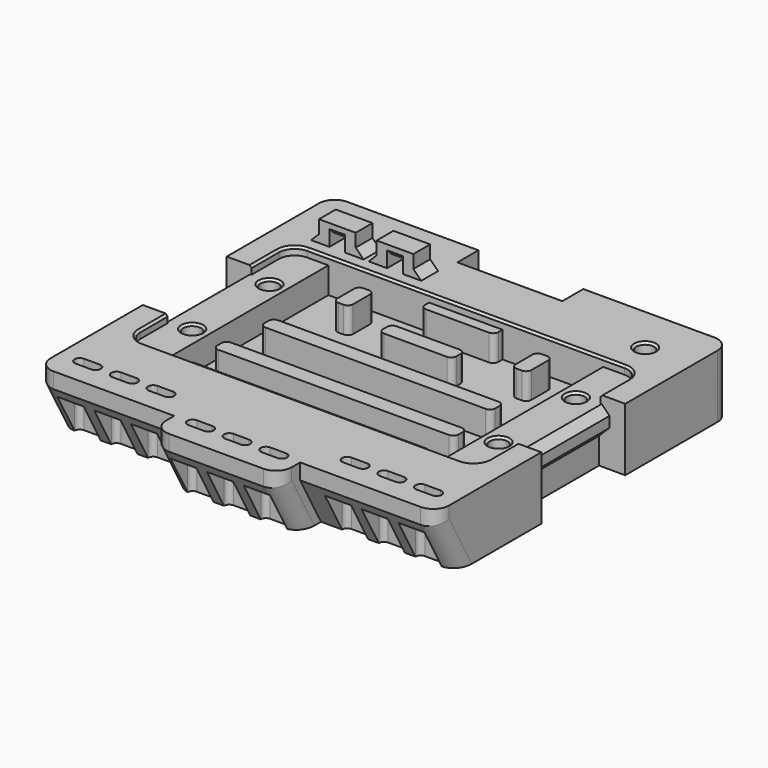
from build123d import *

# Parameters (mm, degrees)
SKETCH_W                 = 76
SKETCH_H                 = 75
PAD_DEPTH                = 12
SKETCH001_W              = 66.5
SKETCH001_H              = 39
POCKET_DEPTH             = 1.5
FILLET_R                 = 3
SKETCH002_W              = 3
SKETCH002_H              = 20
SKETCH002_W_2            = 20
SKETCH002_H_2            = 3
POCKET001_DEPTH          = 12.001
SKETCH003_W              = 52.42
SKETCH003_H              = 39
POCKET002_DEPTH          = 5
SKETCH004_R              = 1.7
POCKET003_DEPTH          = 12.001
SKETCH005_R              = 1.95
POCKET004_DEPTH          = 7
SKETCH006_W              = 2
SKETCH006_H              = 20
SKETCH006_W_2            = 20
SKETCH006_H_2            = 2
POCKET005_DEPTH          = 5
SKETCH007_W              = 2
SKETCH007_H              = 20
SKETCH007_W_2            = 20
SKETCH007_H_2            = 2
POCKET006_DEPTH          = 1.5
SKETCH019_W              = 26
SKETCH019_H              = 5
POCKET015_DEPTH          = 12.001
CHAMFER_SIZE2            = 9
CHAMFER_SIZE             = 4.99
FILLET007009_R           = 3
POCKET016_DEPTH          = 12.001
SKETCH021_W              = 5
SKETCH021_H              = 5
POCKET017_DEPTH          = 7
CHAMFER013004014004_SIZE = 0.4
CHAMFER013004014005_SIZE = 1.5
CHAMFER013004014006_SIZE = 1.99
SKETCH022_R              = 1.7
POCKET018_DEPTH          = 12.001
SKETCH023_R              = 1.95
POCKET019_DEPTH          = 7
CHAMFER013004014007_SIZE = 0.4
SKETCH024_W              = 7
SKETCH024_H              = 4
PAD004_DEPTH             = 4
SKETCH025_W              = 3
SKETCH025_H              = 2
POCKET020_DEPTH          = 4
CHAMFER013004014008_SIZE = 1.5
CHAMFER013004014009_SIZE = 1
CHAMFER013004014010_SIZE = 0.4
SKETCH026_W              = 2
SKETCH026_H              = 54
SKETCH026_H_2            = 55
POCKET021_DEPTH          = 4
SKETCH027_W              = 44
SKETCH027_H              = 3
SKETCH027_W_2            = 46
SKETCH027_H_2            = 2
SKETCH027_W_3            = 3
SKETCH027_H_3            = 6
SKETCH027_W_4            = 14
PAD005_DEPTH             = 5
FILLET007010_R           = 1
CHAMFER013004014011_SIZE = 0.6


with BuildPart() as part:
    # Sketch → Pad (new body)
    with BuildSketch(Plane.XY):
        with Locations((0, -2.5)):
            Rectangle(SKETCH_W, SKETCH_H)
    extrude(amount=PAD_DEPTH)

    # Sketch001 (on Face6 of Pad) → Pocket (cut)
    with BuildSketch(Plane.XY.offset(12)):
        Rectangle(SKETCH001_W, SKETCH001_H)
    extrude(amount=-POCKET_DEPTH, mode=Mode.SUBTRACT)

    # Fillet
    fillet_edges = [part.edges().sort_by_distance(p)[0] for p in [
        (-33.25, 19.5, 11.25),
        (33.25, 19.5, 11.25),
        (33.25, -19.5, 11.25),
        (-33.25, -19.5, 11.25),
    ]]
    fillet(fillet_edges, radius=FILLET_R)

    # Sketch002 (on Face1 of Fillet) → Pocket001 (cut, through all)
    with BuildSketch(Plane.XY.offset(12)):
        with Locations((-36.5, 0)):
            Rectangle(SKETCH002_W, SKETCH002_H)
        with Locations((36.5, 0)):
            Rectangle(SKETCH002_W, SKETCH002_H)
        with Locations((0, 33.5)):
            Rectangle(SKETCH002_W_2, SKETCH002_H_2)
    extrude(amount=-POCKET001_DEPTH, mode=Mode.SUBTRACT)

    # Sketch003 (on Face27 of Pocket001) → Pocket002 (cut)
    with BuildSketch(Plane.XY.offset(10.5)):
        Rectangle(SKETCH003_W, SKETCH003_H)
    extrude(amount=-POCKET002_DEPTH, mode=Mode.SUBTRACT)

    # Sketch004 (on Face26 of Pocket002) → Pocket003 (cut, through all)
    with BuildSketch(Plane(origin=(0, 0, 0), x_dir=(1, 0, 0), z_dir=(0, 0, -1))):
        with Locations((-29.21, 9.2075)):
            Circle(SKETCH004_R)
        with Locations((-29.21, -9.2075)):
            Circle(SKETCH004_R)
        with Locations((29.21, 9.2075)):
            Circle(SKETCH004_R)
        with Locations((29.21, -9.2075)):
            Circle(SKETCH004_R)
    extrude(amount=-POCKET003_DEPTH, mode=Mode.SUBTRACT)

    # Sketch005 (on Face26 of Pocket003) → Pocket004 (cut)
    with BuildSketch(Plane(origin=(0, 0, 0), x_dir=(1, 0, 0), z_dir=(0, 0, -1))):
        with Locations((-29.21, 9.2075)):
            Circle(SKETCH005_R)
        with Locations((-29.21, -9.2075)):
            Circle(SKETCH005_R)
        with Locations((29.21, 9.2075)):
            Circle(SKETCH005_R)
        with Locations((29.21, -9.2075)):
            Circle(SKETCH005_R)
    extrude(amount=-POCKET004_DEPTH, mode=Mode.SUBTRACT)

    # Sketch006 (on Face26 of Pocket004) → Pocket005 (cut)
    with BuildSketch(Plane(origin=(0, 0, 0), x_dir=(1, 0, 0), z_dir=(0, 0, -1))):
        with Locations((-34, 0)):
            Rectangle(SKETCH006_W, SKETCH006_H)
        with Locations((34, 0)):
            Rectangle(SKETCH006_W, SKETCH006_H)
        with Locations((0, -31)):
            Rectangle(SKETCH006_W_2, SKETCH006_H_2)
    extrude(amount=-POCKET005_DEPTH, mode=Mode.SUBTRACT)

    # Sketch007 (on Face1 of Pocket005) → Pocket006 (cut)
    with BuildSketch(Plane.XY.offset(12)):
        with Locations((-34, 0)):
            Rectangle(SKETCH007_W, SKETCH007_H)
        with Locations((34, 0)):
            Rectangle(SKETCH007_W, SKETCH007_H)
        with Locations((0, 31)):
            Rectangle(SKETCH007_W_2, SKETCH007_H_2)
    extrude(amount=-POCKET006_DEPTH, mode=Mode.SUBTRACT)

    # Sketch019 (on Face67 of Pocket006) → Pocket015 (cut, through all)
    with BuildSketch(Plane.XY.offset(12)):
        with Locations((-25, -37.5)):
            Rectangle(SKETCH019_W, SKETCH019_H)
        with Locations((25, -37.5)):
            Rectangle(SKETCH019_W, SKETCH019_H)
    extrude(amount=-POCKET015_DEPTH, mode=Mode.SUBTRACT)

    # Chamfer
    chamfer_edges = [part.edges().sort_by_distance(p)[0] for p in [
        (-25, -35, 0),
        (0, -40, 0),
        (25, -35, 0),
    ]]
    chamfer_side = part.faces().sort_by_distance((0, -1.521931, 0))[0]
    chamfer(chamfer_edges, length=CHAMFER_SIZE, length2=CHAMFER_SIZE2, reference=chamfer_side)

    # Fillet007009
    fillet007009_edges = [part.edges().sort_by_distance(p)[0] for p in [
        (-38, -32.505, 4.5),
        (-38, -35, 10.5),
        (-38, 35, 6),
        (38, 35, 6),
        (38, -32.505, 4.5),
        (38, -35, 10.5),
        (12, -40, 10.5),
        (12, -37.505, 4.5),
        (-12, -40, 10.5),
        (-12, -37.505, 4.5),
    ]]
    fillet(fillet007009_edges, radius=FILLET007009_R)

    # Sketch020 (on Face39 of Fillet007009) → Pocket016 (cut, through all)
    with BuildSketch(Plane.XY.offset(12)):
        with BuildLine():
            ThreePointArc((-34, -29), (-35, -30), (-34, -31))
            Line((-34, -31), (-31, -31))
            ThreePointArc((-31, -31), (-30, -30), (-31, -29))
            Line((-34, -29), (-31, -29))
        make_face()
        with BuildLine():
            ThreePointArc((-27, -29), (-28, -30), (-27, -31))
            Line((-27, -31), (-24, -31))
            ThreePointArc((-24, -31), (-23, -30), (-24, -29))
            Line((-27, -29), (-24, -29))
        make_face()
        with BuildLine():
            ThreePointArc((-20, -29), (-21, -30), (-20, -31))
            Line((-20, -31), (-17, -31))
            ThreePointArc((-17, -31), (-16, -30), (-17, -29))
            Line((-20, -29), (-17, -29))
        make_face()
        with BuildLine():
            ThreePointArc((-8.5, -34), (-9.5, -35), (-8.5, -36))
            Line((-8.5, -36), (-5.5, -36))
            ThreePointArc((-5.5, -36), (-4.5, -35), (-5.5, -34))
            Line((-8.5, -34), (-5.5, -34))
        make_face()
        with BuildLine():
            ThreePointArc((-1.5, -34), (-2.5, -35), (-1.5, -36))
            Line((-1.5, -36), (1.5, -36))
            ThreePointArc((1.5, -36), (2.5, -35), (1.5, -34))
            Line((-1.5, -34), (1.5, -34))
        make_face()
        with BuildLine():
            ThreePointArc((5.5, -34), (4.5, -35), (5.5, -36))
            Line((5.5, -36), (8.5, -36))
            ThreePointArc((8.5, -36), (9.5, -35), (8.5, -34))
            Line((5.5, -34), (8.5, -34))
        make_face()
        with BuildLine():
            ThreePointArc((17, -29), (16, -30), (17, -31))
            Line((17, -31), (20, -31))
            ThreePointArc((20, -31), (21, -30), (20, -29))
            Line((17, -29), (20, -29))
        make_face()
        with BuildLine():
            ThreePointArc((24, -29), (23, -30), (24, -31))
            Line((24, -31), (27, -31))
            ThreePointArc((27, -31), (28, -30), (27, -29))
            Line((24, -29), (27, -29))
        make_face()
        with BuildLine():
            ThreePointArc((31, -29), (30, -30), (31, -31))
            Line((31, -31), (34, -31))
            ThreePointArc((34, -31), (35, -30), (34, -29))
            Line((31, -29), (34, -29))
        make_face()
    extrude(amount=-POCKET016_DEPTH, mode=Mode.SUBTRACT)

    # Sketch021 (on Face1 of Pocket016) → Pocket017 (cut)
    with BuildSketch(Plane(origin=(0, 0, 0), x_dir=(1, 0, 0), z_dir=(0, 0, -1))):
        with Locations((-32.5, 32.5)):
            Rectangle(SKETCH021_W, SKETCH021_H)
        with Locations((-25.5, 32.5)):
            Rectangle(SKETCH021_W, SKETCH021_H)
        with Locations((-18.5, 32.5)):
            Rectangle(SKETCH021_W, SKETCH021_H)
        with Locations((-7, 37.5)):
            Rectangle(SKETCH021_W, SKETCH021_H)
        with Locations((0, 37.5)):
            Rectangle(SKETCH021_W, SKETCH021_H)
        with Locations((7, 37.5)):
            Rectangle(SKETCH021_W, SKETCH021_H)
        with Locations((18.5, 32.5)):
            Rectangle(SKETCH021_W, SKETCH021_H)
        with Locations((25.5, 32.5)):
            Rectangle(SKETCH021_W, SKETCH021_H)
        with Locations((32.5, 32.5)):
            Rectangle(SKETCH021_W, SKETCH021_H)
    extrude(amount=-POCKET017_DEPTH, mode=Mode.SUBTRACT)

    # Chamfer013004014004
    chamfer013004014004_edges = [part.edges().sort_by_distance(p)[0] for p in [
        (-32.5, -33.891111, 7),
        (-25.5, -33.891111, 7),
        (-18.5, -33.891111, 7),
        (-6.75, -38.891111, 7),
        (-9.251146, -38.87907, 7),
        (0, -38.891111, 7),
        (6.75, -38.891111, 7),
        (9.251146, -38.87907, 7),
        (18.5, -33.891111, 7),
        (25.5, -33.891111, 7),
        (32.5, -33.891111, 7),
    ]]
    chamfer(chamfer013004014004_edges, length=CHAMFER013004014004_SIZE)

    # Chamfer013004014005
    chamfer013004014005_edges = [part.edges().sort_by_distance(p)[0] for p in [
        (-35, 0, 10.5),
        (0, 32, 10.5),
        (35, 0, 10.5),
    ]]
    chamfer(chamfer013004014005_edges, length=CHAMFER013004014005_SIZE)

    # Chamfer013004014006
    chamfer013004014006_edges = [part.edges().sort_by_distance(p)[0] for p in [
        (35, 0, 5),
        (-35, 0, 5),
        (0, 32, 5),
    ]]
    chamfer(chamfer013004014006_edges, length=CHAMFER013004014006_SIZE)

    # Sketch022 (on Face9 of Chamfer013004014006) → Pocket018 (cut, through all)
    with BuildSketch(Plane(origin=(0, 0, 0), x_dir=(1, 0, 0), z_dir=(0, 0, -1))):
        with Locations((29, -26)):
            Circle(SKETCH022_R)
    extrude(amount=-POCKET018_DEPTH, mode=Mode.SUBTRACT)

    # Sketch023 (on Face9 of Pocket018) → Pocket019 (cut)
    with BuildSketch(Plane(origin=(0, 0, 0), x_dir=(1, 0, 0), z_dir=(0, 0, -1))):
        with Locations((29, -26)):
            Circle(SKETCH023_R)
    extrude(amount=-POCKET019_DEPTH, mode=Mode.SUBTRACT)

    # Chamfer013004014007
    chamfer013004014007_edges = [part.edges().sort_by_distance(p)[0] for p in [
        (-30.91, -9.2075, 10.5),
        (-30.91, 9.2075, 10.5),
        (27.3, 26, 12),
        (27.51, -9.2075, 10.5),
        (27.51, 9.2075, 10.5),
    ]]
    chamfer(chamfer013004014007_edges, length=CHAMFER013004014007_SIZE)

    # Sketch024 (on Face22 of Chamfer013004014007) → Pad004 (join)
    with BuildSketch(Plane.XY.offset(12)):
        with Locations((-26.5, 24)):
            Rectangle(SKETCH024_W, SKETCH024_H)
        with Locations((-15.5, 24)):
            Rectangle(SKETCH024_W, SKETCH024_H)
    extrude(amount=PAD004_DEPTH)

    # Sketch025 (on Face119 of Pad004) → Pocket020 (cut)
    with BuildSketch(Plane(origin=(0, 26, 0), x_dir=(-1, 0, 0), z_dir=(0, 1, 0))):
        with Locations((15.5, 13)):
            Rectangle(SKETCH025_W, SKETCH025_H)
        with Locations((26.5, 13)):
            Rectangle(SKETCH025_W, SKETCH025_H)
    extrude(amount=-POCKET020_DEPTH, mode=Mode.SUBTRACT)

    # Chamfer013004014008
    chamfer013004014008_edges = [part.edges().sort_by_distance(p)[0] for p in [
        (-30, 24, 12),
        (-19, 24, 12),
        (-23, 24, 12),
        (-12, 24, 12),
    ]]
    chamfer(chamfer013004014008_edges, length=CHAMFER013004014008_SIZE)

    # Chamfer013004014009
    chamfer013004014009_edges = [part.edges().sort_by_distance(p)[0] for p in [
        (-26.5, 22, 14),
        (-15.5, 22, 14),
        (-15.5, 26, 14),
        (-26.5, 26, 14),
    ]]
    chamfer(chamfer013004014009_edges, length=CHAMFER013004014009_SIZE)

    # Chamfer013004014010
    chamfer013004014010_edges = [part.edges().sort_by_distance(p)[0] for p in [
        (-33.25, 13.25, 12),
        (-32.37132, 18.62132, 12),
        (0, 19.5, 12),
        (32.37132, 18.62132, 12),
        (33.25, 13.25, 12),
        (33.25, -13.25, 12),
        (32.37132, -18.62132, 12),
        (0, -19.5, 12),
        (-32.37132, -18.62132, 12),
        (-33.25, -13.25, 12),
    ]]
    chamfer(chamfer013004014010_edges, length=CHAMFER013004014010_SIZE)

    # Sketch026 (on Face33 of Chamfer013004014010) → Pocket021 (cut)
    with BuildSketch(Plane(origin=(0, 0, 0), x_dir=(1, 0, 0), z_dir=(0, 0, -1))):
        with Locations((-23, -2)):
            Rectangle(SKETCH026_W, SKETCH026_H)
        with Locations((-9, 2.5)):
            Rectangle(SKETCH026_W, SKETCH026_H_2)
        with Locations((9, 2.5)):
            Rectangle(SKETCH026_W, SKETCH026_H_2)
        with Locations((23, -2)):
            Rectangle(SKETCH026_W, SKETCH026_H)
    extrude(amount=-POCKET021_DEPTH, mode=Mode.SUBTRACT)

    # Sketch027 (on Face152 of Pocket021) → Pad005 (join)
    with BuildSketch(Plane.XY.offset(5.5)):
        with Locations((0, -0.5)):
            Rectangle(SKETCH027_W, SKETCH027_H)
        with Locations((0, -18.5)):
            Rectangle(SKETCH027_W_2, SKETCH027_H_2)
        with Locations((-17, 14)):
            Rectangle(SKETCH027_W_3, SKETCH027_H_3)
        with Locations((17, 14)):
            Rectangle(SKETCH027_W_3, SKETCH027_H_3)
        with Locations((0, 9)):
            Rectangle(SKETCH027_W_4, SKETCH027_H)
        with Locations((0, 18.5)):
            Rectangle(SKETCH027_W_4, SKETCH027_H_2)
        with Locations((0, -10.5)):
            Rectangle(SKETCH027_W_2, SKETCH027_H)
    extrude(amount=PAD005_DEPTH)

    # Fillet007010
    fillet007010_edges = [part.edges().sort_by_distance(p)[0] for p in [
        (-23, -17.5, 8),
        (23, -17.5, 8),
        (23, -12, 8),
        (23, -9, 8),
        (22, -2, 8),
        (22, 1, 8),
        (18.5, 17, 8),
        (18.5, 11, 8),
        (7, 7.5, 8),
        (7, 10.5, 8),
        (7, 17.5, 8),
        (-15.5, 11, 8),
        (-15.5, 17, 8),
        (-7, 17.5, 8),
        (15.5, 17, 8),
        (15.5, 11, 8),
        (-7, 7.5, 8),
        (-18.5, 11, 8),
        (-18.5, 17, 8),
        (-22, -2, 8),
        (-22, 1, 8),
        (-23, -12, 8),
        (-23, -9, 8),
        (-7, 10.5, 8),
    ]]
    fillet(fillet007010_edges, radius=FILLET007010_R)

    # Chamfer013004014011
    chamfer013004014011_edges = [part.edges().sort_by_distance(p)[0] for p in [
        (27.05, 26, 0),
        (27.26, 9.2075, 0),
        (27.26, -9.2075, 0),
        (-31.16, 9.2075, 0),
        (-31.16, -9.2075, 0),
    ]]
    chamfer(chamfer013004014011_edges, length=CHAMFER013004014011_SIZE)


solid = part.part
